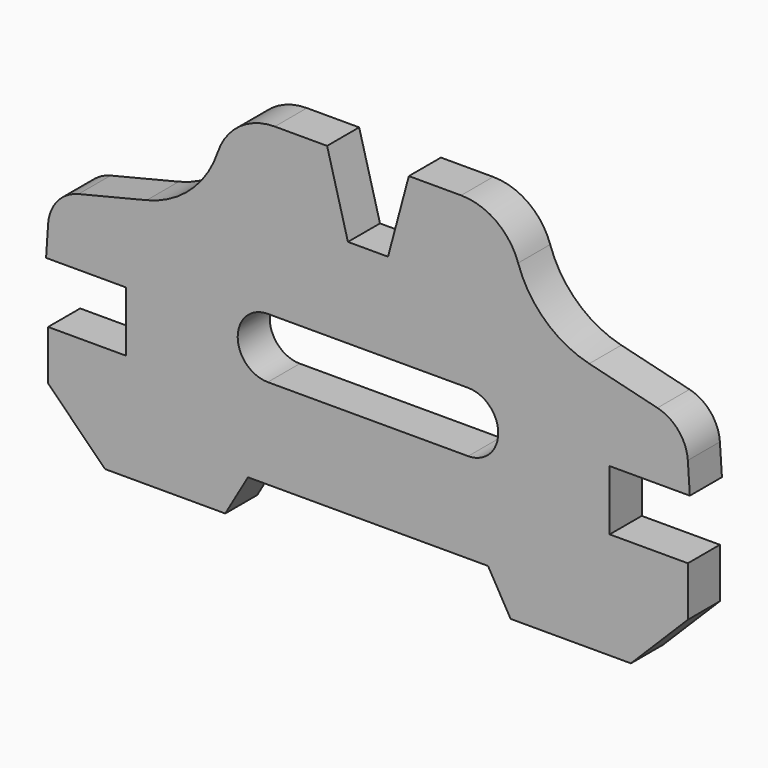
from build123d import *

# Parameters (mm, degrees)
F1_DEPTH = 12.7
F2_SIZE  = 18.034


with BuildPart() as f1:
    # F0 (on Front) → F1 (new body)
    with BuildSketch(Plane.XZ):
        with BuildLine():
            Line((-45.212, -73.980378), (-38.026299, -61.534378))
            Line((-38.026299, -61.534378), (38.026299, -61.534378))
            Line((38.026299, -61.534378), (45.212, -73.980378))
            Line((45.212, -73.980378), (101.346, -73.980378))
            Line((101.346, -73.980378), (101.346, -40.198378))
            Line((101.346, -40.198378), (76.583056, -40.198378))
            Line((76.583056, -40.198378), (76.583056, -21.148378))
            Line((76.583056, -21.148378), (101.983056, -21.148378))
            Line((101.983056, -21.148378), (101.346, -11.496378))
            ThreePointArc((101.346, -11.496378), (98.404863, -4.172398), (91.705454, 0))
            Line((91.705454, 0), (70.104, 5.310482))
            ThreePointArc((70.104, 5.310482), (56.175891, 12.787018), (47.5794, 26.053184))
            ThreePointArc((47.5794, 26.053184), (40.642961, 35.46285), (29.516818, 39.049622))
            Line((29.516818, 39.049622), (12.951732, 39.049622))
            Line((12.951732, 39.049622), (6.35, 14.411622))
            Line((6.35, 14.411622), (-6.35, 14.411622))
            Line((-6.35, 14.411622), (-12.951732, 39.049622))
            Line((-12.951732, 39.049622), (-29.516818, 39.049622))
            ThreePointArc((-29.516818, 39.049622), (-40.642961, 35.46285), (-47.5794, 26.053184))
            ThreePointArc((-47.5794, 26.053184), (-56.175891, 12.787018), (-70.104, 5.310482))
            Line((-70.104, 5.310482), (-91.705454, 0))
            ThreePointArc((-91.705454, 0), (-98.404863, -4.172398), (-101.346, -11.496378))
            Line((-101.346, -11.496378), (-101.983056, -21.148378))
            Line((-101.983056, -21.148378), (-76.583056, -21.148378))
            Line((-76.583056, -21.148378), (-76.583056, -40.198378))
            Line((-76.583056, -40.198378), (-101.346, -40.198378))
            Line((-101.346, -40.198378), (-101.346, -73.980378))
            Line((-101.346, -73.980378), (-45.212, -73.980378))
        make_face()
        with BuildLine():
            ThreePointArc((41.275, -23.434378), (38.485192, -30.16957), (31.75, -32.959378))
            Line((31.75, -32.959378), (-31.75, -32.959378))
            ThreePointArc((-31.75, -32.959378), (-41.275, -23.434378), (-31.75, -13.909378))
            Line((-31.75, -13.909378), (31.75, -13.909378))
            ThreePointArc((31.75, -13.909378), (38.485192, -16.699186), (41.275, -23.434378))
        make_face(mode=Mode.SUBTRACT)
    extrude(amount=F1_DEPTH)

    # F2
    f2_edges = [f1.edges().sort_by_distance(p)[0] for p in [
        (-101.346, -6.35, -73.980378),
        (101.346, -6.35, -73.980378),
    ]]
    chamfer(f2_edges, length=F2_SIZE)


solid = f1.part
